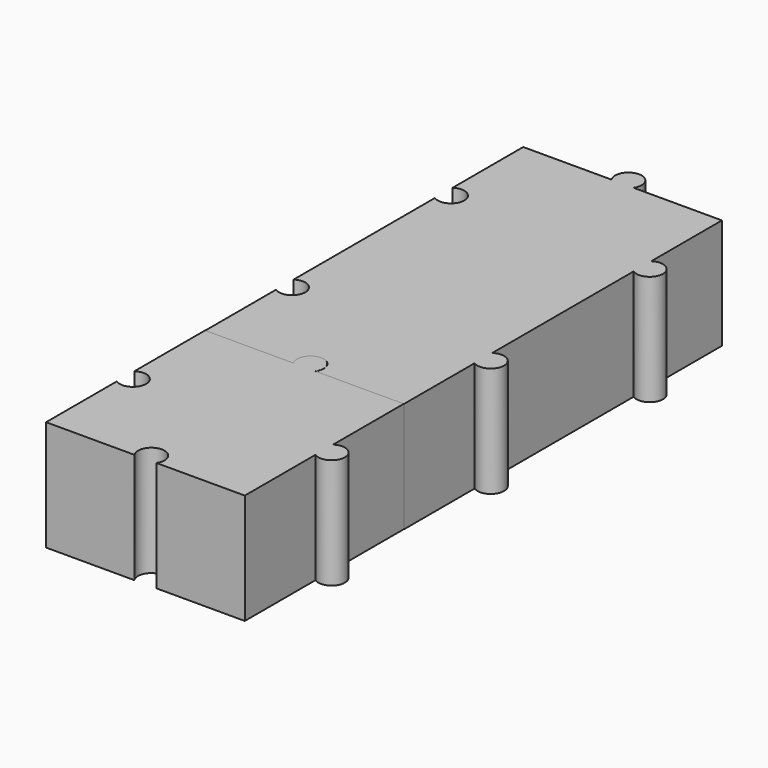
from build123d import *

# Parameters (mm, degrees)
PAD_DEPTH       = 25
POCKET_DEPTH    = 23
PAD001_DEPTH    = 25
POCKET001_DEPTH = 23


with BuildPart() as body:
    # Sketch → Pad (new body)
    with BuildSketch(Plane.XY):
        with BuildLine():
            ThreePointArc((2.5, 22.5), (0, 27.158312), (-2.5, 22.5))
            Line((-22.5, 22.5), (-2.5, 22.5))
            Line((-22.5, 2.5), (-22.5, 22.5))
            ThreePointArc((-22.5, -2.5), (-17.841688, 0), (-22.5, 2.5))
            Line((-22.5, -2.5), (-22.5, -22.5))
            Line((-2.5, -22.5), (-22.5, -22.5))
            ThreePointArc((2.5, -22.5), (0, -17.841688), (-2.5, -22.5))
            Line((22.5, -22.5), (2.5, -22.5))
            Line((22.5, -2.5), (22.5, -22.5))
            ThreePointArc((22.5, -2.5), (27.158312, 0), (22.5, 2.5))
            Line((22.5, 22.5), (22.5, 2.5))
            Line((2.5, 22.5), (22.5, 22.5))
        make_face()
    extrude(amount=PAD_DEPTH)

    # Sketch001 (on Face13 of Pad) → Pocket (cut)
    with BuildSketch(Plane(origin=(0, 0, 0), x_dir=(1, 0, 0), z_dir=(0, 0, -1))):
        with BuildLine():
            Line((-20.5, 20.5), (-5, 20.5))
            ThreePointArc((-5, 20.5), (0, 15.841688), (5, 20.5))
            Line((20.5, 20.5), (5, 20.5))
            Line((20.5, -20.5), (20.5, 20.5))
            Line((-20.5, -20.5), (20.5, -20.5))
            Line((-20.5, -5), (-20.5, -20.5))
            ThreePointArc((-20.5, -5), (-15.841688, 0), (-20.5, 5))
            Line((-20.5, 20.5), (-20.5, 5))
        make_face()
    extrude(amount=-POCKET_DEPTH, mode=Mode.SUBTRACT)


with BuildPart() as body001:
    # Sketch002 → Pad001 (new body)
    with BuildSketch(Plane.XY):
        with BuildLine():
            ThreePointArc((2.552452, 22.5), (0.052452, 27.158312), (-2.447548, 22.5))
            Line((-2.447548, 22.5), (-22.447548, 22.5))
            Line((-22.447548, 22.5), (-22.447548, 2.5))
            ThreePointArc((-22.447548, -2.5), (-17.789235, 0), (-22.447548, 2.5))
            Line((-22.447548, -2.5), (-22.447548, -42.5))
            ThreePointArc((-22.447548, -47.5), (-17.789235, -45), (-22.447548, -42.5))
            Line((-22.447548, -67.5), (-22.447548, -47.5))
            Line((-22.447548, -67.5), (-2.447548, -67.5))
            ThreePointArc((2.552452, -67.5), (0.052452, -62.841688), (-2.447548, -67.5))
            Line((2.552452, -67.5), (22.552452, -67.5))
            Line((22.552452, -67.5), (22.552452, -47.5))
            ThreePointArc((22.552452, -47.5), (27.215821, -45.003362), (22.552452, -42.506723))
            Line((22.552452, -42.506723), (22.552452, -2.506723))
            ThreePointArc((22.552452, -2.506723), (27.205686, -0.003362), (22.552452, 2.5))
            Line((22.552452, 2.5), (22.552452, 22.5))
            Line((22.552452, 22.5), (2.552452, 22.5))
        make_face()
    extrude(amount=PAD001_DEPTH)

    # Sketch003 (on Face17 of Pad001) → Pocket001 (cut)
    with BuildSketch(Plane(origin=(0, 0, 0), x_dir=(1, 0, 0), z_dir=(0, 0, -1))):
        with BuildLine():
            Line((-20.447548, 49.980478), (-20.447548, 65.5))
            Line((-20.447548, 65.5), (-4.928026, 65.5))
            ThreePointArc((-4.928026, 65.5), (-0.156115, 60.845429), (4.96312, 65.115042))
            Line((4.96312, 65.115042), (20.552452, 65.115042))
            Line((20.552452, 65.115042), (20.552452, -20.5))
            Line((20.552452, -20.5), (-20.447548, -20.5))
            Line((-20.447548, -20.5), (-20.447548, -4.980478))
            ThreePointArc((-20.447548, -4.980478), (-15.789235, 0), (-20.447548, 4.980478))
            Line((-20.447548, 4.980478), (-20.447548, 40.019522))
            ThreePointArc((-20.447548, 40.019522), (-15.789235, 45), (-20.447548, 49.980478))
        make_face()
    extrude(amount=-POCKET001_DEPTH, mode=Mode.SUBTRACT)


with BuildPart() as body001_1:
    # Body001 placement: moved
    add(body001.part.moved(Location((0, 90, 0))))


solid = Compound([body.part, body001_1.part])
